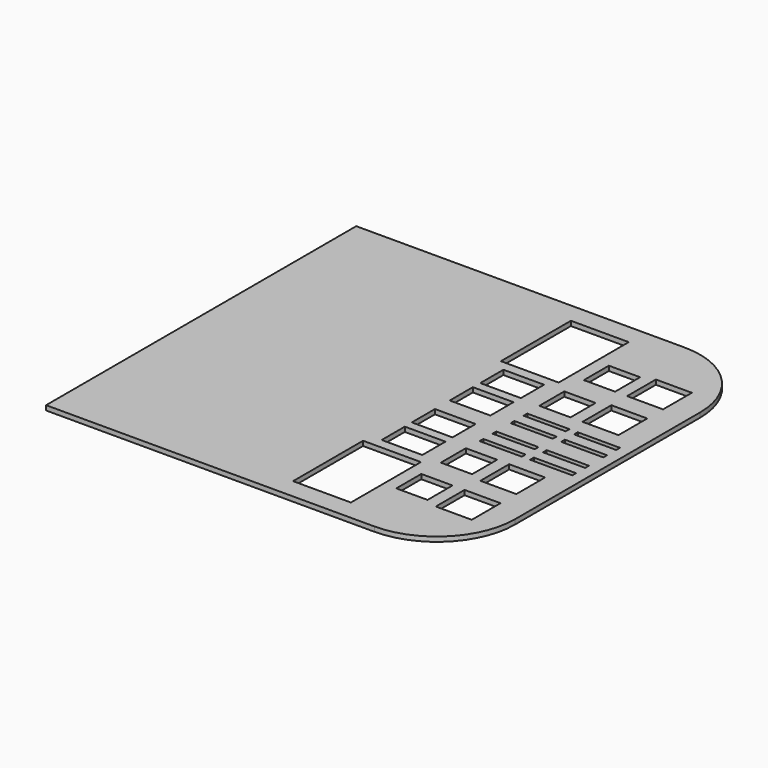
from build123d import *

# Parameters (mm, degrees)
F0_W     = 37
F0_H     = 56
F0_W_2   = 20
F0_H_2   = 20
F0_W_3   = 23
F0_H_3   = 23
F0_W_4   = 26
F0_H_4   = 18.5
F0_W_5   = 27
F0_H_5   = 3
F1_DEPTH = 1.5


with BuildPart() as f1:
    # F0 (on Top) → F1 (new body, symmetric)
    with BuildSketch(Plane.XY):
        with BuildLine():
            Line((-36.7347033552, 107.9341696352), (-246.7347033552, 107.9341696352))
            Line((-246.7347033552, 107.9341696352), (-246.7347033552, -140.0658303648))
            Line((-246.7347033552, -140.0658303648), (-36.7347033552, -140.0658303648))
            ThreePointArc((-36.7347033552, -140.0658303648), (-1.3793642959, -125.4211694242), (13.2652966448, -90.0658303648))
            Line((13.2652966448, -90.0658303648), (13.2652966448, 57.9341696352))
            ThreePointArc((13.2652966448, 57.9341696352), (-1.3793642959, 93.2895086945), (-36.7347033552, 107.9341696352))
        make_face()
        with Locations((-80.5683995187, -99.1663551629)):
            Rectangle(F0_W, F0_H, mode=Mode.SUBTRACT)
        with Locations((-43.9143308997, -91.0555796049)):
            Rectangle(F0_W_2, F0_H_2, mode=Mode.SUBTRACT)
        with Locations((-14.7307934463, -92.5555796049)):
            Rectangle(F0_W_3, F0_H_3, mode=Mode.SUBTRACT)
        with Locations((-79.3031121492, -55.4835397024)):
            Rectangle(F0_W_4, F0_H_4, mode=Mode.SUBTRACT)
        with Locations((-79.4423933029, -31.2153330278)):
            Rectangle(F0_W_4, F0_H_4, mode=Mode.SUBTRACT)
        with Locations((-43.9143308997, -55.4228818417)):
            Rectangle(F0_W_2, F0_H_2, mode=Mode.SUBTRACT)
        with Locations((-14.7307934463, -56.9228818417)):
            Rectangle(F0_W_3, F0_H_3, mode=Mode.SUBTRACT)
        with Locations((-39.8564947546, -33.6316607296)):
            Rectangle(F0_W_5, F0_H_5, mode=Mode.SUBTRACT)
        with Locations((-39.8564947546, -23.3316607296)):
            Rectangle(F0_W_5, F0_H_5, mode=Mode.SUBTRACT)
        with Locations((-7.5564947546, -33.6316607296)):
            Rectangle(F0_W_5, F0_H_5, mode=Mode.SUBTRACT)
        with Locations((-7.5564947546, -23.3316607296)):
            Rectangle(F0_W_5, F0_H_5, mode=Mode.SUBTRACT)
        with Locations((-79.4423933029, -0.9163277019)):
            Rectangle(F0_W_4, F0_H_4, mode=Mode.SUBTRACT)
        with Locations((-79.3031121492, 23.3518789727)):
            Rectangle(F0_W_4, F0_H_4, mode=Mode.SUBTRACT)
        with Locations((-39.8564947546, -8.8)):
            Rectangle(F0_W_5, F0_H_5, mode=Mode.SUBTRACT)
        with Locations((-39.8564947546, 1.5)):
            Rectangle(F0_W_5, F0_H_5, mode=Mode.SUBTRACT)
        with Locations((-7.5564947546, -8.8)):
            Rectangle(F0_W_5, F0_H_5, mode=Mode.SUBTRACT)
        with Locations((-7.5564947546, 1.5)):
            Rectangle(F0_W_5, F0_H_5, mode=Mode.SUBTRACT)
        with Locations((-43.9143308997, 23.291221112)):
            Rectangle(F0_W_2, F0_H_2, mode=Mode.SUBTRACT)
        with Locations((-14.7307934463, 24.791221112)):
            Rectangle(F0_W_3, F0_H_3, mode=Mode.SUBTRACT)
        with Locations((-80.5683995187, 67.0346944332)):
            Rectangle(F0_W, F0_H, mode=Mode.SUBTRACT)
        with Locations((-43.9143308997, 58.9239188753)):
            Rectangle(F0_W_2, F0_H_2, mode=Mode.SUBTRACT)
        with Locations((-14.7307934463, 60.4239188753)):
            Rectangle(F0_W_3, F0_H_3, mode=Mode.SUBTRACT)
    extrude(amount=F1_DEPTH, both=True)


solid = f1.part
